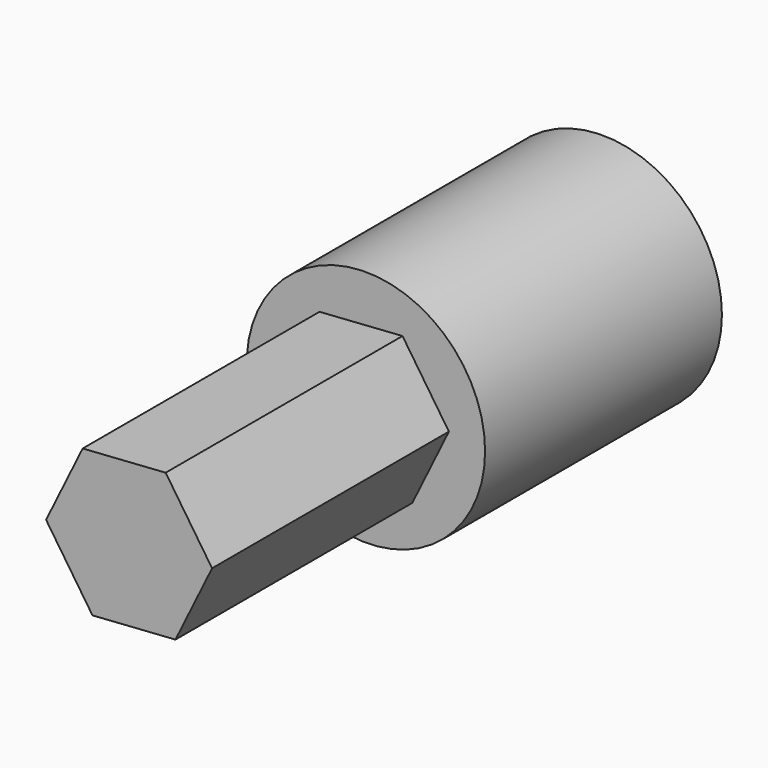
from build123d import *

# Parameters (mm, degrees)
F1_DEPTH = 38.1
F2_R     = 15.340009
F3_DEPTH = 38.1


with BuildPart() as f1:
    # F0 (on Front) → F1 (new body)
    with BuildSketch(Plane.XZ):
        Polygon((10.681883, 0.728829), (4.709757, 9.615196), (-5.972126, 8.886367), (-10.681883, -0.728829), (-4.709757, -9.615196), (5.972126, -8.886367), align=None)
    extrude(amount=F1_DEPTH)

    # F2 (on Front) → F3 (join)
    with BuildSketch(Plane.XZ):
        Circle(F2_R)
    extrude(amount=-F3_DEPTH)


solid = f1.part
